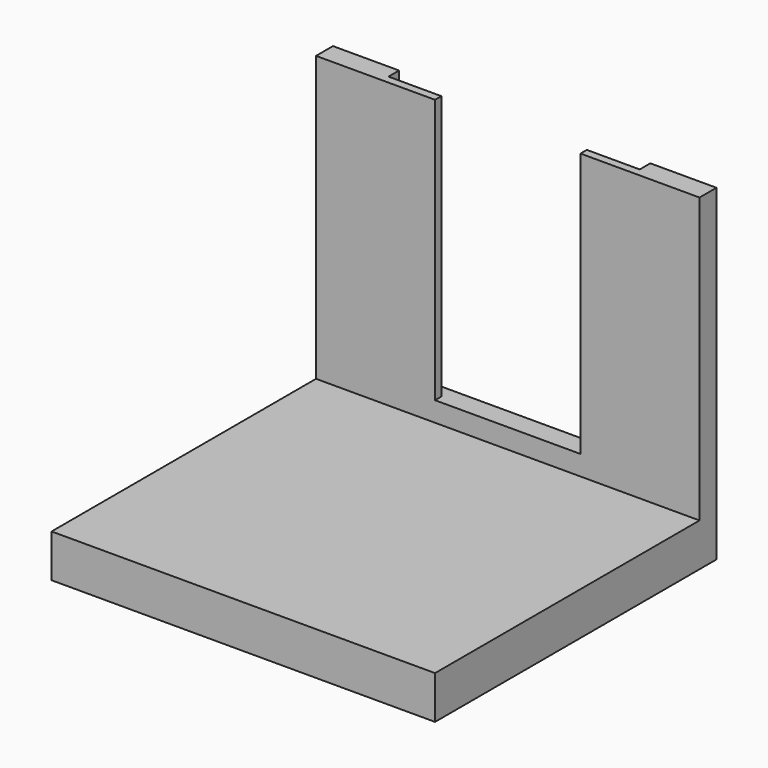
from build123d import *

# Parameters (mm, degrees)
F0_W      = 38
F0_H      = 1.2
F1_DEPTH  = 20
F3_W      = 10
F3_H      = 20
F4_DEPTH  = 3.2
F5_W      = 10
F5_H      = 20
F6_DEPTH  = 3.2
F7_W      = 38
F7_H      = 2
F8_DEPTH  = 10
F2_W      = 22
F2_H      = 1.2
F9_DEPTH  = 20
F10_W     = 18
F10_H     = 7
F11_DEPTH = 50
F12_DEPTH = 20
F13_DEPTH = 40
F14_DEPTH = 0.5


with BuildPart() as f1:
    # F0 (on Top) → F1 (new body)
    with BuildSketch(Plane.XY):
        with Locations((19, 0.6)):
            Rectangle(F0_W, F0_H)
    extrude(amount=F1_DEPTH)

    # F3 (on face) → F4 (join)
    with BuildSketch(Plane.XZ):
        with Locations((-5, 10)):
            Rectangle(F3_W, F3_H)
    extrude(amount=-F4_DEPTH)

    # F5 (on face) → F6 (join)
    with BuildSketch(Plane.XZ):
        with Locations((43, 10)):
            Rectangle(F5_W, F5_H)
    extrude(amount=-F6_DEPTH)

    # F7 (on face) → F8 (join)
    with BuildSketch(Plane(origin=(0, 0, 0), x_dir=(1, 0, 0), z_dir=(0, 0, -1))):
        with Locations((19, -2.2)):
            Rectangle(F7_W, F7_H)
        Polygon((48, -3.2), (48, 0), (-10, 0), (-10, -3.2), (0, -3.2), (0, -1.2), (38, -1.2), (38, -3.2), align=None)
    extrude(amount=F8_DEPTH)

    # F2 (on face) → F9 (cut)
    with BuildSketch(Plane.XY.offset(20)):
        with Locations((19, 0.6)):
            Rectangle(F2_W, F2_H)
    extrude(amount=-F9_DEPTH, mode=Mode.SUBTRACT)

    # F10 (on face) → F11 (join)
    with BuildSketch(Plane.XZ):
        with Locations((-1, -6.5)):
            Rectangle(F10_W, F10_H)
    extrude(amount=F11_DEPTH)

    # F12 (add): faces of the model
    f12_faces = [f1.faces().sort_by_distance(p)[0] for p in [
        (40.9230769231, 1.3692307692, 20),
        (-2.9230769231, 1.3692307692, 20),
    ]]
    extrude(f12_faces, amount=F12_DEPTH)

    # F13 (add): a face of the model
    f13_faces = [f1.faces().sort_by_distance(p)[0] for p in [
        (8, -25, -6.5),
    ]]
    extrude(f13_faces, amount=F13_DEPTH)

    # F14 (cut): a face of the model
    f14_faces = [f1.faces().sort_by_distance(p)[0] for p in [
        (19, -23.4, -10),
    ]]
    extrude(f14_faces, amount=-F14_DEPTH, mode=Mode.SUBTRACT)


solid = f1.part
